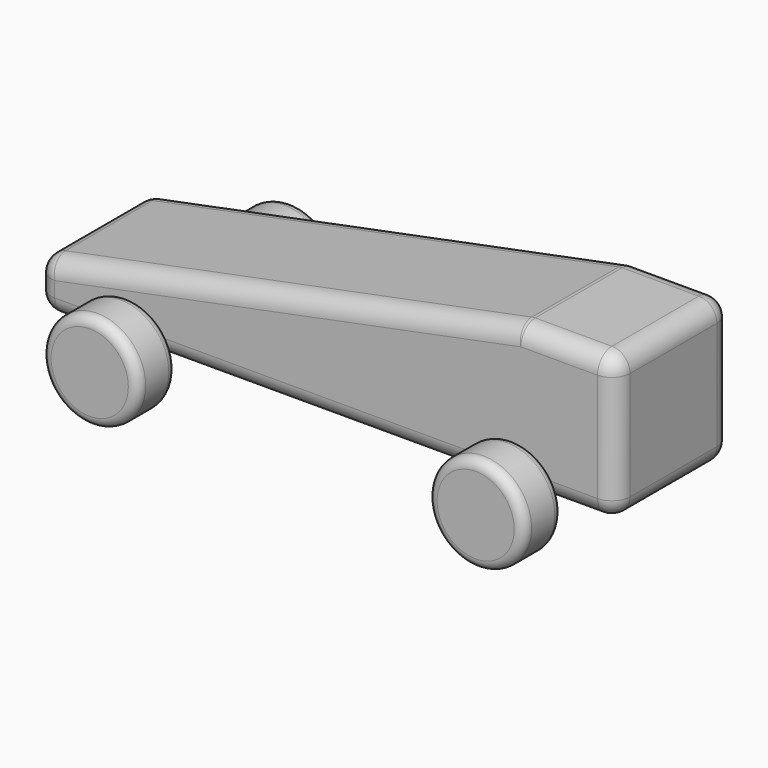
from build123d import *

# Parameters (mm, degrees)
F1_DEPTH = 38.1
F3_R     = 25.4
F4_DEPTH = 25.4
F5_R     = 5.08
F8_R     = 9.525


with BuildPart() as f1:
    # F0 (on Front) → F1 (new body, symmetric)
    with BuildSketch(Plane.XZ):
        Polygon((-152.4, 25.4), (-152.4, 0), (152.4, 0), (152.4, 76.2), (101.6, 76.2), align=None)
    extrude(amount=F1_DEPTH, both=True)

    # F8
    f8_edges = [f1.edges().sort_by_distance(p)[0] for p in [
        (-25.4, 38.1, 50.8),
        (-152.4, 0, 25.4),
        (-25.4, -38.1, 50.8),
        (101.6, 0, 76.2),
        (127, 38.1, 76.2),
        (127, -38.1, 76.2),
        (152.4, 0, 76.2),
        (152.4, 0, 0),
        (152.4, 38.1, 38.1),
        (152.4, -38.1, 38.1),
        (-152.4, -38.1, 12.7),
        (0, -38.1, 0),
        (-152.4, 38.1, 12.7),
        (0, 38.1, 0),
        (-152.4, 0, 0),
    ]]
    fillet(f8_edges, radius=F8_R)


with BuildPart() as f4:
    # F3 (on offset) → F4 (new body)
    with BuildSketch(Plane.XZ.offset(41.275)):
        with Locations((-101.6, 0)):
            Circle(F3_R)
    extrude(amount=F4_DEPTH)

    # F5
    f5_edges = [f4.edges().sort_by_distance(p)[0] for p in [
        (-127, -66.675, 0),
        (-127, -41.275, 0),
    ]]
    fillet(f5_edges, radius=F5_R)


with BuildPart() as f6_1:
    # F6: instance of F4
    add(f4.part.mirror(Plane.YZ))


with BuildPart() as f7_1:
    # F7: instance of F4
    add(f4.part.mirror(Plane.XZ))


with BuildPart() as f7_2:
    # F7: instance of F6_1
    add(f6_1.part.mirror(Plane.XZ))


solid = Compound([f1.part, f4.part, f6_1.part, f7_1.part, f7_2.part])
